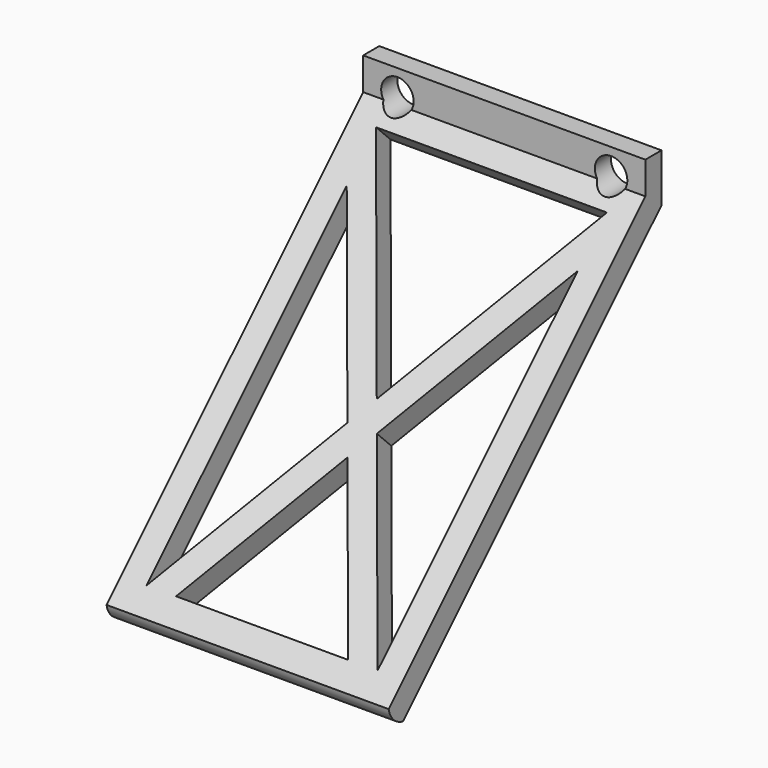
from build123d import *

# Parameters (mm, degrees)
F0_W     = 70
F0_H     = 12
F1_DEPTH = 5
F2_R     = 4.025
F3_DEPTH = 25.4
F5_DEPTH = 69.977
F6_R     = 4.025
F7_DEPTH = 25.4
F9_DEPTH = 25.4


with BuildPart() as f1:
    # F0 (on Front) → F1 (new body)
    with BuildSketch(Plane.XZ):
        Rectangle(F0_W, F0_H)
    extrude(amount=F1_DEPTH)

    # F2 (on face) → F3 (cut)
    with BuildSketch(Plane.XZ.offset(5)):
        with Locations((-26.5, 0)):
            Circle(F2_R)
        with Locations((26.5, 0)):
            Circle(F2_R)
    extrude(amount=-F3_DEPTH, mode=Mode.SUBTRACT)

    # F4 (on face) → F5 (join)
    with BuildSketch(Plane.YZ.offset(35)):
        with BuildLine():
            Line((-80.10874, -86.10874), (0, -6))
            Line((0, -6), (-5, -6))
            Line((-5, -6), (-5, -2.019744))
            Line((-5, -2.019744), (-84.598868, -81.618612))
            ThreePointArc((-84.598868, -81.618612), (-83.067369, -84.577241), (-80.10874, -86.10874))
        make_face()
    extrude(amount=-F5_DEPTH)

    # F6 (on face) → F7 (cut)
    with BuildSketch(Plane(origin=(0, 0, 0), x_dir=(-1, 0, 0), z_dir=(0, 1, 0))):
        with Locations((26.5, 0)):
            Circle(F6_R)
        with Locations((-26.5, 0)):
            Circle(F6_R)
    extrude(amount=-F7_DEPTH, mode=Mode.SUBTRACT)

    # F8 (on face) → F9 (cut)
    with BuildSketch(Plane(origin=(0, 3, -3), x_dir=(-1, 0, 0), z_dir=(0, 0.707107, -0.707107))):
        Polygon((-3.665127, -67.304638), (-28.65, -23.425769), (-28.65, -111.183507), align=None)
        Polygon((-0.0115, -60.888074), (28.627, -10.592641), (-28.65, -10.592641), align=None)
        Polygon((28.627, -111.183507), (28.627, -23.425769), (3.642127, -67.304638), align=None)
        Polygon((-21.342745, -111.183507), (21.319745, -111.183507), (-0.0115, -73.721202), align=None)
    extrude(amount=-F9_DEPTH, mode=Mode.SUBTRACT)


solid = f1.part
